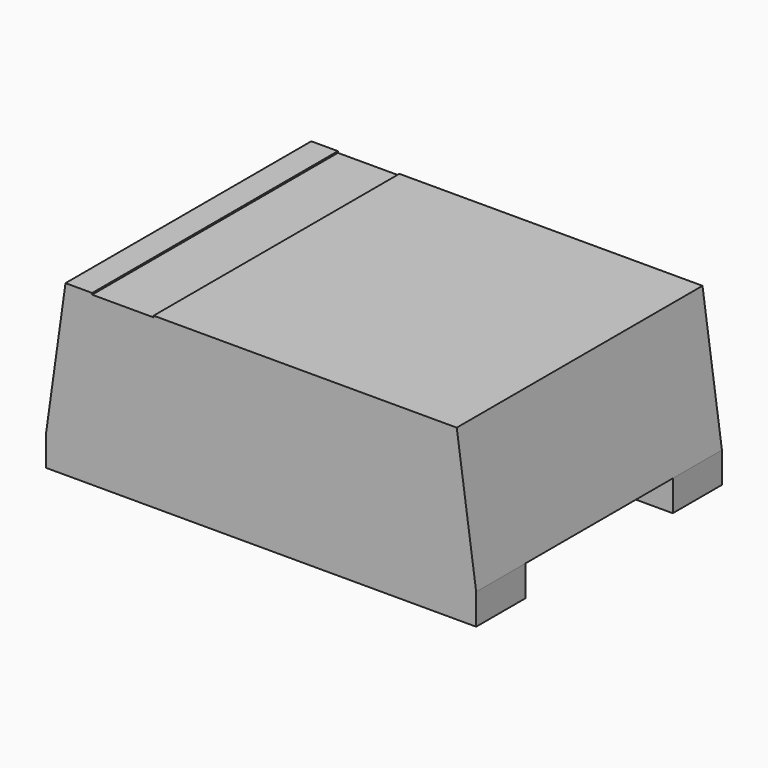
from build123d import *

# Parameters (mm, degrees)
PAD_DEPTH       = 1
SKETCH003_W     = 0.4
SKETCH003_H     = 2
POCKET_DEPTH    = 0.01
SKETCH005_W     = 0.95
SKETCH005_H     = 1.2
POCKET001_DEPTH = 0.2


with BuildPart() as part:
    # Sketch → Pad (new body, symmetric)
    with BuildSketch(Plane.XZ):
        Polygon((-1.4, 0), (1.4, 0), (1.4, 0.2), (1.273513, 1.1), (-1.273513, 1.1), (-1.4, 0.2), align=None)
    extrude(amount=PAD_DEPTH, both=True)

    # Sketch003 (on Face1 of Pad) → Pocket (cut)
    with BuildSketch(Plane(origin=(0, 0, 1.1), x_dir=(-1, 0, 0), z_dir=(0, 0, 1))):
        with Locations((0.9, 0)):
            Rectangle(SKETCH003_W, SKETCH003_H)
    extrude(amount=-POCKET_DEPTH, mode=Mode.SUBTRACT)

    # Sketch005 (on Face7 of Pocket) → Pocket001 (cut)
    with BuildSketch(Plane(origin=(0, 0, 0), x_dir=(1, 0, 0), z_dir=(0, 0, -1))):
        with Locations((1.425, 0)):
            Rectangle(SKETCH005_W, SKETCH005_H)
    pocket001 = extrude(amount=-POCKET001_DEPTH, mode=Mode.SUBTRACT)

    # Mirrored: Pocket001 across YZ
    add(pocket001.mirror(Plane.YZ), mode=Mode.SUBTRACT)


solid = part.part
